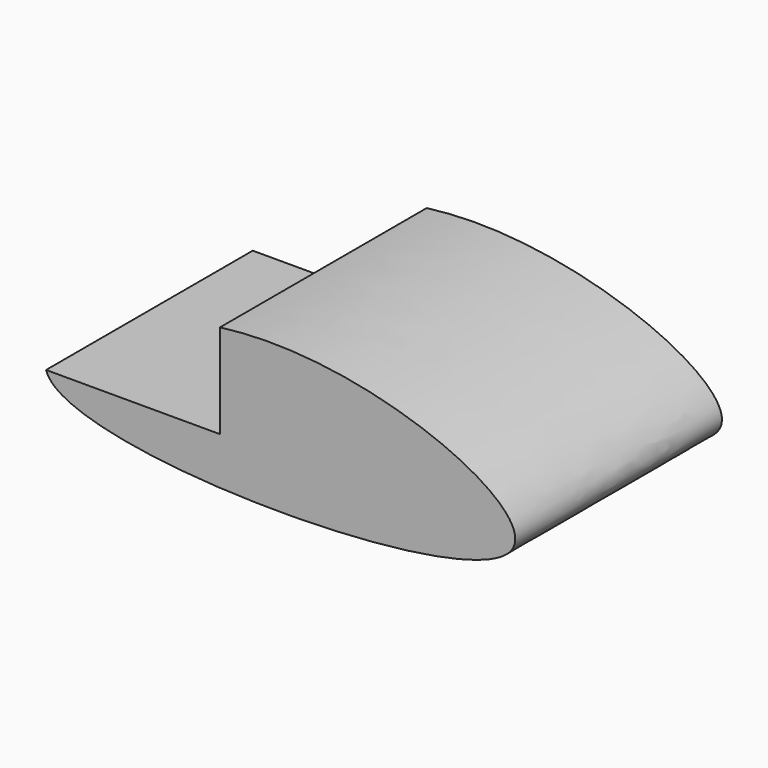
from build123d import *

# Parameters (mm, degrees)
F1_DEPTH = 25.4
F2_W     = 20.5047996715
F2_H     = 13.7457135133
F3_DEPTH = 25.4


with BuildPart() as f1:
    # F0 (on Front) → F1 (new body)
    with BuildSketch(Plane.XZ):
        with BuildLine():
            add(Edge.make_bspline(
                [(-20.6058093333, 0), (-24.3087769362, 3.741634379), (-0.018030599, 17.1746298574), (46.7676191744, -5.0093239864), (-15.4408801688, -5.2188618966), (-20.6058093333, 0)],
                knots=[0, 0, 0, 0, 0.2885026218, 0.5975942095, 1, 1, 1, 1], degree=3))
        make_face()
    extrude(amount=F1_DEPTH)

    # F2 (on face) → F3 (cut)
    with BuildSketch(Plane.XZ.offset(25.4)):
        with Locations((-14.3498531543, 7.8112001065)):
            Rectangle(F2_W, F2_H)
    extrude(amount=-F3_DEPTH, mode=Mode.SUBTRACT)


solid = f1.part
